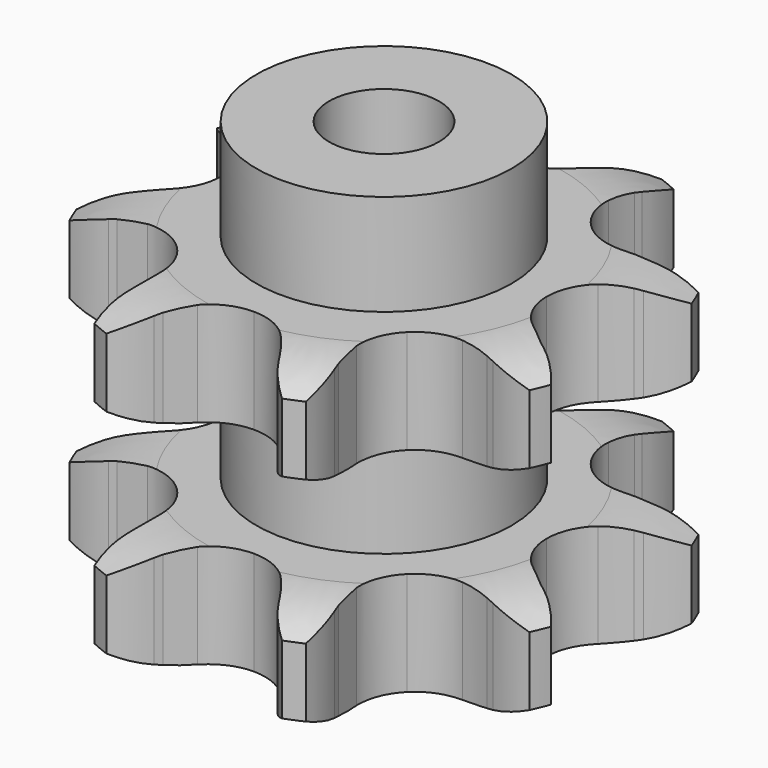
from build123d import *

# Parameters (mm, degrees)
PAD_DEPTH         = 72
SKETCH001_R       = 29
PAD001_DEPTH      = 95
SKETCH002_R       = 12.5
POCKET_DEPTH      = 0.001
POCKET_DEPTH_BACK = -95.001


with BuildPart() as part:
    # Sprocket → Pad (new body)
    with BuildSketch(Plane.XY):
        with BuildLine():
            ThreePointArc((-23.133648, 55.849566), (-18.055997, 52.380663), (-14.140039, 47.639239))
            Line((-14.140039, 47.639239), (-13.259331, 46.202054))
            ThreePointArc((-13.259331, 46.202054), (-11.47061, 43.574966), (-9.43833, 41.131413))
            ThreePointArc((-9.43833, 41.131413), (-5.155802, 38.062598), (0, 36.978449))
            ThreePointArc((0, 36.978449), (5.155802, 38.062598), (9.43833, 41.131413))
            ThreePointArc((9.43833, 41.131413), (11.47061, 43.574966), (13.259331, 46.202054))
            Line((13.259331, 46.202054), (14.140039, 47.639239))
            ThreePointArc((14.140039, 47.639239), (18.055997, 52.380663), (23.133648, 55.849566))
            ThreePointArc((23.133648, 55.849566), (24.271204, 49.80624), (23.687511, 43.684547))
            Line((23.687511, 43.684547), (23.294022, 42.045548))
            ThreePointArc((23.294022, 42.045548), (22.701207, 38.9231), (22.410394, 35.758208))
            ThreePointArc((22.410394, 35.758208), (23.268618, 30.560023), (26.147712, 26.147712))
            ThreePointArc((26.147712, 26.147712), (30.560023, 23.268618), (35.758208, 22.410394))
            Line((35.758208, 22.410394), (42.045548, 23.294022))
            ThreePointArc((42.045548, 23.294022), (42.862544, 23.501195), (43.684547, 23.687511))
            ThreePointArc((43.684547, 23.687511), (49.80624, 24.271204), (55.849566, 23.133648))
            ThreePointArc((55.849566, 23.133648), (52.380663, 18.055997), (47.639239, 14.140039))
            Line((47.639239, 14.140039), (46.202054, 13.259331))
            ThreePointArc((46.202054, 13.259331), (43.574966, 11.47061), (41.131413, 9.43833))
            ThreePointArc((41.131413, 9.43833), (38.062598, 5.155802), (36.978449, 0))
            ThreePointArc((36.978449, 0), (38.062598, -5.155802), (41.131413, -9.43833))
            Line((41.131413, -9.43833), (46.202054, -13.259331))
            ThreePointArc((46.202054, -13.259331), (46.92625, -13.690541), (47.639239, -14.140039))
            ThreePointArc((47.639239, -14.140039), (52.380663, -18.055997), (55.849566, -23.133648))
            ThreePointArc((55.849566, -23.133648), (49.80624, -24.271204), (43.684547, -23.687511))
            Line((43.684547, -23.687511), (42.045548, -23.294022))
            ThreePointArc((42.045548, -23.294022), (38.9231, -22.701207), (35.758208, -22.410394))
            ThreePointArc((35.758208, -22.410394), (30.560023, -23.268618), (26.147712, -26.147712))
            ThreePointArc((26.147712, -26.147712), (23.268618, -30.560023), (22.410394, -35.758208))
            Line((22.410394, -35.758208), (23.294022, -42.045548))
            ThreePointArc((23.294022, -42.045548), (23.501195, -42.862544), (23.687511, -43.684547))
            ThreePointArc((23.687511, -43.684547), (24.271204, -49.80624), (23.133648, -55.849566))
            ThreePointArc((23.133648, -55.849566), (18.055997, -52.380663), (14.140039, -47.639239))
            Line((14.140039, -47.639239), (13.259331, -46.202054))
            ThreePointArc((13.259331, -46.202054), (11.47061, -43.574966), (9.43833, -41.131413))
            ThreePointArc((9.43833, -41.131413), (5.155802, -38.062598), (0, -36.978449))
            ThreePointArc((0, -36.978449), (-5.155802, -38.062598), (-9.43833, -41.131413))
            Line((-9.43833, -41.131413), (-13.259331, -46.202054))
            ThreePointArc((-13.259331, -46.202054), (-13.690541, -46.92625), (-14.140039, -47.639239))
            ThreePointArc((-14.140039, -47.639239), (-18.055997, -52.380663), (-23.133648, -55.849566))
            ThreePointArc((-23.133648, -55.849566), (-24.271204, -49.80624), (-23.687511, -43.684547))
            Line((-23.687511, -43.684547), (-23.294022, -42.045548))
            ThreePointArc((-23.294022, -42.045548), (-22.701207, -38.9231), (-22.410394, -35.758208))
            ThreePointArc((-22.410394, -35.758208), (-23.268618, -30.560023), (-26.147712, -26.147712))
            ThreePointArc((-26.147712, -26.147712), (-30.560023, -23.268618), (-35.758208, -22.410394))
            Line((-35.758208, -22.410394), (-42.045548, -23.294022))
            ThreePointArc((-42.045548, -23.294022), (-42.862544, -23.501195), (-43.684547, -23.687511))
            ThreePointArc((-43.684547, -23.687511), (-49.80624, -24.271204), (-55.849566, -23.133648))
            ThreePointArc((-55.849566, -23.133648), (-52.380663, -18.055997), (-47.639239, -14.140039))
            Line((-47.639239, -14.140039), (-46.202054, -13.259331))
            ThreePointArc((-46.202054, -13.259331), (-43.574966, -11.47061), (-41.131413, -9.43833))
            ThreePointArc((-41.131413, -9.43833), (-38.062598, -5.155802), (-36.978449, 0))
            ThreePointArc((-36.978449, 0), (-38.062598, 5.155802), (-41.131413, 9.43833))
            Line((-41.131413, 9.43833), (-46.202054, 13.259331))
            ThreePointArc((-46.202054, 13.259331), (-46.92625, 13.690541), (-47.639239, 14.140039))
            ThreePointArc((-47.639239, 14.140039), (-52.380663, 18.055997), (-55.849566, 23.133648))
            ThreePointArc((-55.849566, 23.133648), (-49.80624, 24.271204), (-43.684547, 23.687511))
            Line((-43.684547, 23.687511), (-42.045548, 23.294022))
            ThreePointArc((-42.045548, 23.294022), (-38.9231, 22.701207), (-35.758208, 22.410394))
            ThreePointArc((-35.758208, 22.410394), (-30.560023, 23.268618), (-26.147712, 26.147712))
            ThreePointArc((-26.147712, 26.147712), (-23.268618, 30.560023), (-22.410394, 35.758208))
            Line((-22.410394, 35.758208), (-23.294022, 42.045548))
            ThreePointArc((-23.294022, 42.045548), (-23.501195, 42.862544), (-23.687511, 43.684547))
            ThreePointArc((-23.687511, 43.684547), (-24.271204, 49.80624), (-23.133648, 55.849566))
        make_face()
    extrude(amount=PAD_DEPTH)

    # Sketch → Groove (revolve, cut)
    with BuildSketch(Plane.XZ):
        with BuildLine():
            ThreePointArc((40.529437, 0), (49.247235, 1.013516), (57.5, 4))
            Line((57.5, 4), (57.5, 19.6))
            ThreePointArc((57.5, 19.6), (49.247235, 22.586484), (40.529437, 23.6))
            Line((29, 23.6), (40.529437, 23.6))
            Line((29, 48.4), (29, 23.6))
            Line((40.529437, 48.4), (29, 48.4))
            ThreePointArc((40.529437, 48.4), (49.247235, 49.413516), (57.5, 52.4))
            Line((57.5, 52.4), (57.5, 68))
            ThreePointArc((57.5, 68), (49.247235, 70.986484), (40.529437, 72))
            Line((40.529437, 72), (67.5, 72))
            Line((67.5, 72), (67.5, 0))
            Line((40.529437, 0), (67.5, 0))
        make_face()
    revolve(axis=Axis((0, 0, 0), (0, 0, 1)), mode=Mode.SUBTRACT)

    # Sketch001 → Pad001 (join)
    with BuildSketch(Plane.XY):
        Circle(SKETCH001_R)
    extrude(amount=PAD001_DEPTH)

    # Sketch002 → Pocket (cut, two sides)
    with BuildSketch(Plane.XY) as pocket_sk:
        Circle(SKETCH002_R)
    extrude(amount=-POCKET_DEPTH, mode=Mode.SUBTRACT)
    extrude(pocket_sk.sketch, amount=-POCKET_DEPTH_BACK, mode=Mode.SUBTRACT)


solid = part.part
